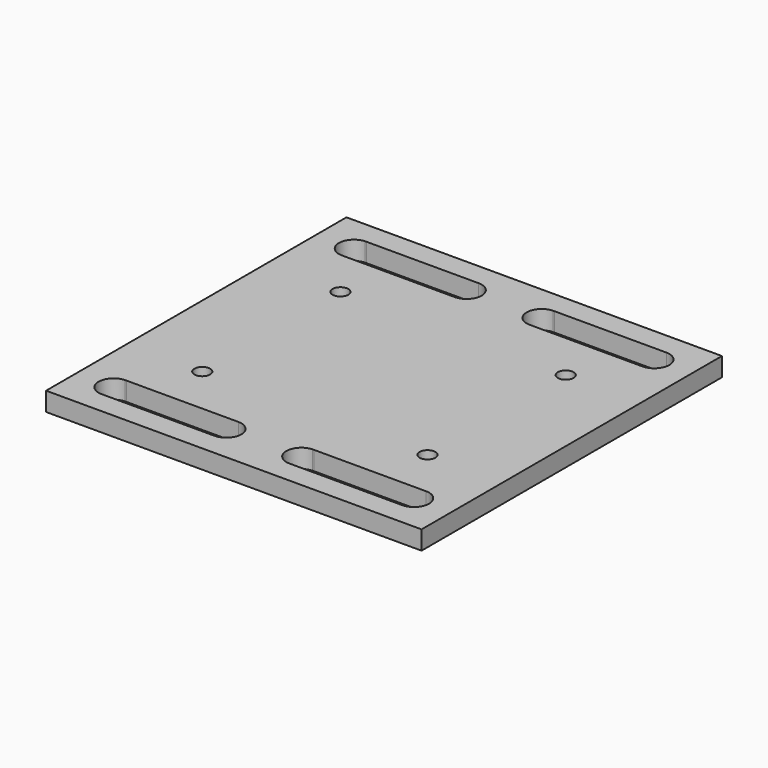
from build123d import *

# Parameters (mm, degrees)
F0_W     = 100
F0_H     = 100
F1_DEPTH = 5
F3_DEPTH = 25
F4_R     = 2.1
F5_DEPTH = 25


with BuildPart() as f1:
    # F0 (on Top) → F1 (new body)
    with BuildSketch(Plane.XY):
        with Locations((50, 50)):
            Rectangle(F0_W, F0_H)
    extrude(amount=F1_DEPTH)

    # F2 (on face) → F3 (cut)
    with BuildSketch(Plane.XY.offset(5)):
        with BuildLine():
            Line((9.80931, 13.995452), (10.189486, 13.995509))
            ThreePointArc((10.189486, 13.995509), (9.999397, 14), (9.80931, 13.995452))
        make_face()
        with BuildLine():
            Line((39.999397, 14), (10.189486, 13.995509))
            Line((10.189486, 13.995509), (9.80931, 13.995452))
            ThreePointArc((9.80931, 13.995452), (6.001138, 9.9046), (10.000056, 6))
            Line((10.000056, 6), (39.942331, 6.000416))
            ThreePointArc((39.942331, 6.000416), (43.999898, 9.971466), (39.999397, 14))
        make_face()
        with BuildLine():
            Line((10.000056, 86), (39.942331, 86.000416))
            ThreePointArc((39.942331, 86.000416), (43.999898, 89.971466), (39.999397, 94))
            Line((39.999397, 94), (10.189486, 93.995509))
            Line((10.189486, 93.995509), (9.80931, 93.995452))
            ThreePointArc((9.80931, 93.995452), (6.001138, 89.9046), (10.000056, 86))
        make_face()
        with BuildLine():
            Line((9.80931, 93.995452), (10.189486, 93.995509))
            ThreePointArc((10.189486, 93.995509), (9.999397, 94), (9.80931, 93.995452))
        make_face()
        with BuildLine():
            Line((60.000056, 6), (89.942331, 6.000416))
            ThreePointArc((89.942331, 6.000416), (93.999898, 9.971466), (89.999397, 14))
            Line((89.999397, 14), (60.189486, 13.995509))
            Line((60.189486, 13.995509), (59.80931, 13.995452))
            ThreePointArc((59.80931, 13.995452), (56.001138, 9.9046), (60.000056, 6))
        make_face()
        with BuildLine():
            Line((59.80931, 13.995452), (60.189486, 13.995509))
            ThreePointArc((60.189486, 13.995509), (59.999397, 14), (59.80931, 13.995452))
        make_face()
        with BuildLine():
            Line((60.000056, 86), (89.942331, 86.000416))
            ThreePointArc((89.942331, 86.000416), (93.999898, 89.971466), (89.999397, 94))
            Line((89.999397, 94), (60.189486, 93.995509))
            Line((60.189486, 93.995509), (59.80931, 93.995452))
            ThreePointArc((59.80931, 93.995452), (56.001138, 89.9046), (60.000056, 86))
        make_face()
        with BuildLine():
            Line((59.80931, 93.995452), (60.189486, 93.995509))
            ThreePointArc((60.189486, 93.995509), (59.999397, 94), (59.80931, 93.995452))
        make_face()
    extrude(amount=-F3_DEPTH, mode=Mode.SUBTRACT)

    # F4 (on face) → F5 (cut)
    with BuildSketch(Plane.XY.offset(5)):
        with Locations((20, 73)):
            Circle(F4_R)
        with Locations((20, 27)):
            Circle(F4_R)
        with Locations((80, 27)):
            Circle(F4_R)
        with Locations((80, 73)):
            Circle(F4_R)
    extrude(amount=-F5_DEPTH, mode=Mode.SUBTRACT)


solid = f1.part
